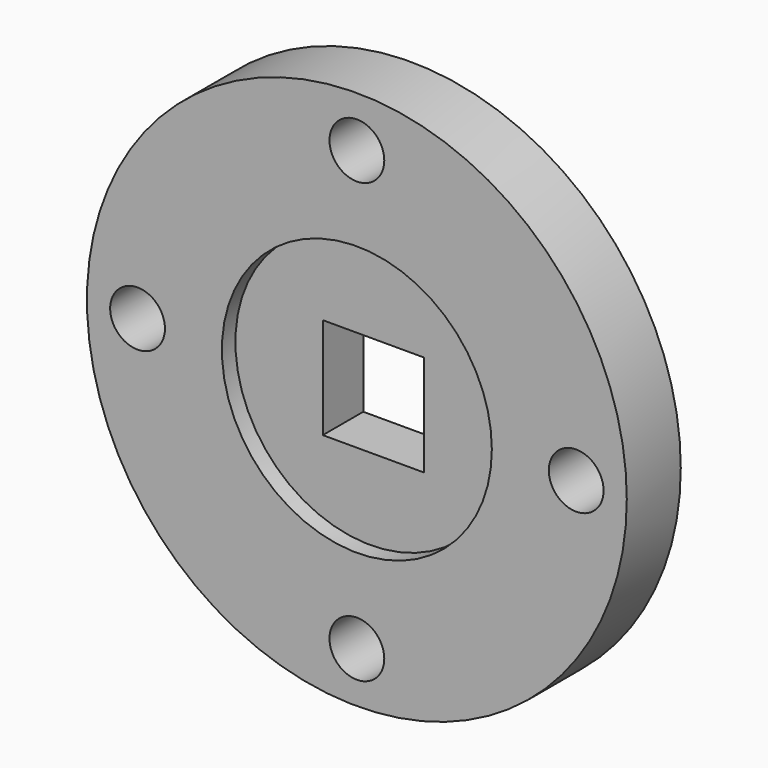
from build123d import *

# Parameters (mm, degrees)
F0_R     = 50.8
F0_R_2   = 5.1562
F0_W     = 19.05
F0_H     = 19.05
F1_DEPTH = 12.7
F2_R     = 25.4
F2_W     = 19.05
F2_H     = 19.05
F3_DEPTH = 3.175


with BuildPart() as f1:
    # F0 (on Front) → F1 (new body)
    with BuildSketch(Plane.XZ):
        Circle(F0_R)
        with Locations((0, -41.275)):
            Circle(F0_R_2, mode=Mode.SUBTRACT)
        with Locations((-41.275, 0)):
            Circle(F0_R_2, mode=Mode.SUBTRACT)
        with Locations((0.5715, -0.5715)):
            Rectangle(F0_W, F0_H, mode=Mode.SUBTRACT)
        with Locations((41.275, 0)):
            Circle(F0_R_2, mode=Mode.SUBTRACT)
        with Locations((0, 41.275)):
            Circle(F0_R_2, mode=Mode.SUBTRACT)
    extrude(amount=F1_DEPTH)

    # F2 (on face) → F3 (cut)
    with BuildSketch(Plane.XZ.offset(12.7)):
        Circle(F2_R)
        with Locations((0.5715, -0.5715)):
            Rectangle(F2_W, F2_H, mode=Mode.SUBTRACT)
    extrude(amount=-F3_DEPTH, mode=Mode.SUBTRACT)


solid = f1.part
